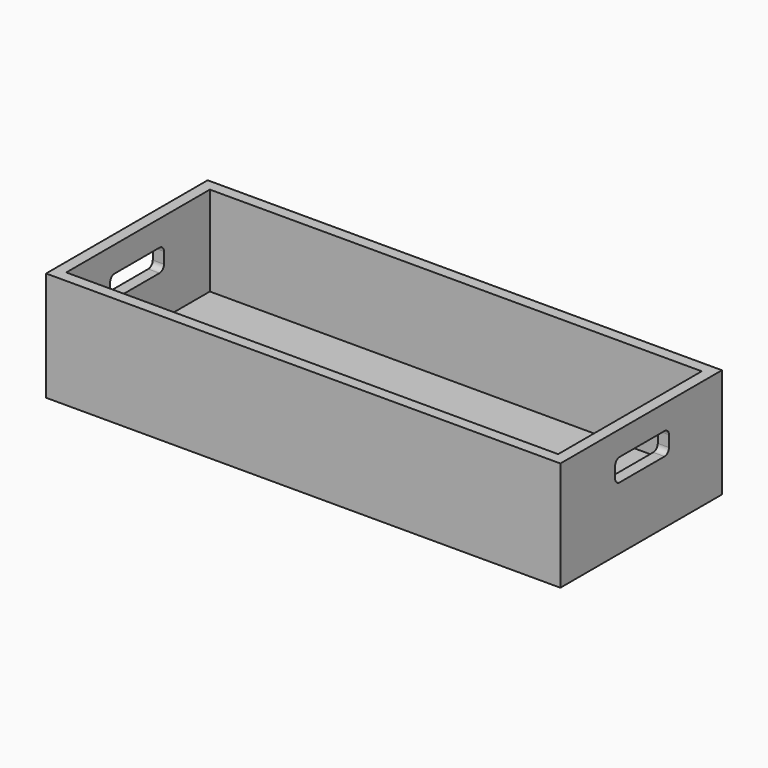
from build123d import *

# Parameters (mm, degrees)
F0_W     = 582.2449624538
F0_H     = 123.8665860146
F1_DEPTH = 228.6
F2_W     = 556.8449624538
F2_H     = 203.2
F3_DEPTH = 101.6
F5_DEPTH = 25.4
F7_DEPTH = 25.4


with BuildPart() as f1:
    # F0 (on Front) → F1 (new body)
    with BuildSketch(Plane.XZ):
        with Locations((187.8082603216, -40.8369610086)):
            Rectangle(F0_W, F0_H)
    extrude(amount=F1_DEPTH)

    # F2 (on face) → F3 (cut)
    with BuildSketch(Plane.XY.offset(21.0963319987)):
        with Locations((187.8082603216, -114.3)):
            Rectangle(F2_W, F2_H)
    extrude(amount=-F3_DEPTH, mode=Mode.SUBTRACT)

    # F4 (on face) → F5 (cut)
    with BuildSketch(Plane.YZ.offset(478.9307415485)):
        with BuildLine():
            Line((-81.2571771383, -6.449976629), (-144.7571771383, -6.449976629))
            ThreePointArc((-144.7571771383, -6.449976629), (-149.2473051989, -8.3098485685), (-151.1071771383, -12.799976629))
            Line((-151.1071771383, -12.799976629), (-151.1071771383, -25.499976629))
            ThreePointArc((-151.1071771383, -25.499976629), (-149.2473051989, -29.9901046896), (-144.7571771383, -31.849976629))
            Line((-144.7571771383, -31.849976629), (-81.2571771383, -31.849976629))
            ThreePointArc((-81.2571771383, -31.849976629), (-76.7670490778, -29.9901046896), (-74.9071771383, -25.499976629))
            Line((-74.9071771383, -25.499976629), (-74.9071771383, -12.799976629))
            ThreePointArc((-74.9071771383, -12.799976629), (-76.7670490778, -8.3098485685), (-81.2571771383, -6.449976629))
        make_face()
    extrude(amount=-F5_DEPTH, mode=Mode.SUBTRACT)

    # F6 (on face) → F7 (cut)
    with BuildSketch(Plane(origin=(-103.3142209053, 0, 0), x_dir=(0, -1, 0), z_dir=(-1, 0, 0))):
        with BuildLine():
            Line((147.485794878, -7.8250148058), (83.985794878, -7.8250148058))
            ThreePointArc((83.985794878, -7.8250148058), (79.4956668175, -9.6848867453), (77.635794878, -14.1750148058))
            Line((77.635794878, -14.1750148058), (77.635794878, -26.8750148058))
            ThreePointArc((77.635794878, -26.8750148058), (79.4956668175, -31.3651428663), (83.985794878, -33.2250148058))
            Line((83.985794878, -33.2250148058), (147.485794878, -33.2250148058))
            ThreePointArc((147.485794878, -33.2250148058), (151.9759229385, -31.3651428663), (153.835794878, -26.8750148058))
            Line((153.835794878, -26.8750148058), (153.835794878, -14.1750148058))
            ThreePointArc((153.835794878, -14.1750148058), (151.9759229385, -9.6848867453), (147.485794878, -7.8250148058))
        make_face()
    extrude(amount=-F7_DEPTH, mode=Mode.SUBTRACT)


solid = f1.part
